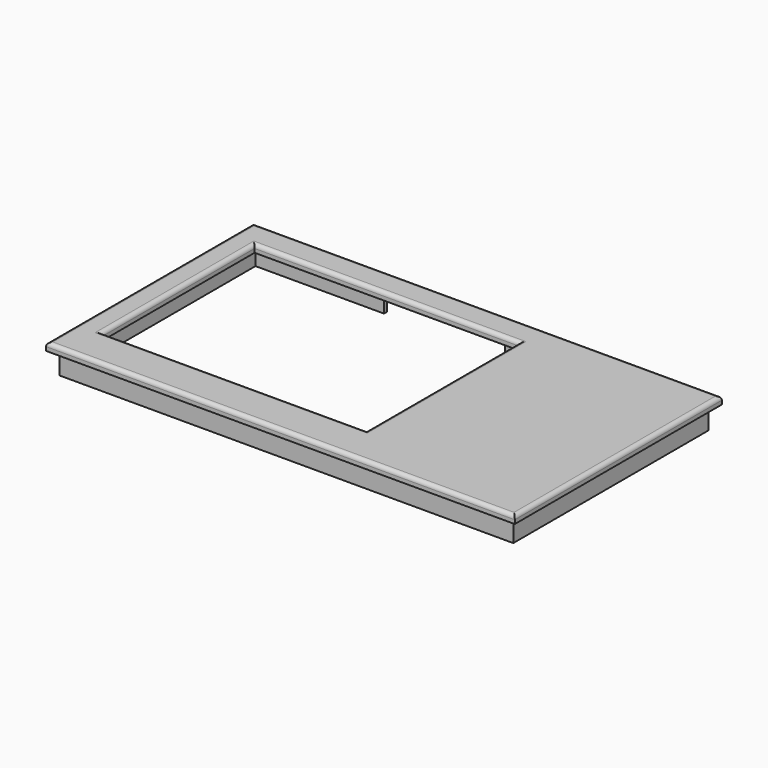
from build123d import *

# Parameters (mm, degrees)
BOX003_W     = 32
BOX003_H     = 10
BOX003_DEPTH = 10
BOX002_W     = 118
BOX002_H     = 62.5
BOX002_DEPTH = 6
BOX_W        = 120
BOX_H        = 64.5
BOX_DEPTH    = 6
BOX004_W     = 70
BOX004_H     = 50.5
BOX004_DEPTH = 10
BOX001_W     = 124
BOX001_H     = 68.5
BOX001_DEPTH = 2
FILLET_R     = 1
FILLET001_R  = 1


with BuildPart() as cube003:
    # Box003 → Box003 (new body)
    with BuildSketch(Plane(origin=(35, 58, -1), x_dir=(1, 0, 0), z_dir=(0, 0, 1))):
        with Locations((16, 5)):
            Rectangle(BOX003_W, BOX003_H)
    extrude(amount=BOX003_DEPTH)


with BuildPart() as cube002:
    # Box002 → Box002 (new body)
    with BuildSketch(Plane(origin=(1, 1, 0), x_dir=(1, 0, 0), z_dir=(0, 0, 1))):
        with Locations((59, 31.25)):
            Rectangle(BOX002_W, BOX002_H)
    extrude(amount=BOX002_DEPTH)


with BuildPart() as cut001:
    # Box → Box (new body)
    with BuildSketch(Plane.XY):
        with Locations((60, 32.25)):
            Rectangle(BOX_W, BOX_H)
    extrude(amount=BOX_DEPTH)

    # Cut: cut Cube002
    add(cube002.part, mode=Mode.SUBTRACT)

    # Cut001: cut Cube003
    add(cube003.part, mode=Mode.SUBTRACT)


with BuildPart() as cut001_1:
    # Cut001 placement: moved
    add(cut001.part.moved(Location((0, 0, 0.1))))


with BuildPart() as cube004:
    # Box004 → Box004 (new body)
    with BuildSketch(Plane(origin=(4.2, 8.7, 0), x_dir=(1, 0, 0), z_dir=(0, 0, 1))):
        with Locations((35, 25.25)):
            Rectangle(BOX004_W, BOX004_H)
    extrude(amount=BOX004_DEPTH)


with BuildPart() as fillet001:
    # Box001 → Box001 (new body)
    with BuildSketch(Plane(origin=(-2, -2, 6), x_dir=(1, 0, 0), z_dir=(0, 0, 1))):
        with Locations((62, 34.25)):
            Rectangle(BOX001_W, BOX001_H)
    extrude(amount=BOX001_DEPTH)

    # Cut002: cut Cube004
    add(cube004.part, mode=Mode.SUBTRACT)

    # Fillet
    fillet_edges = [fillet001.edges().sort_by_distance(p)[0] for p in [
        (39.2, 8.7, 8),
        (74.2, 33.95, 8),
        (39.2, 59.2, 8),
        (4.2, 33.95, 8),
    ]]
    fillet(fillet_edges, radius=FILLET_R)

    # Fillet001
    fillet001_edges = [fillet001.edges().sort_by_distance(p)[0] for p in [
        (-2, 32.25, 8),
        (60, 66.5, 8),
        (60, -2, 8),
        (122, 32.25, 8),
    ]]
    fillet(fillet001_edges, radius=FILLET001_R)


solid = Compound([cut001_1.part, fillet001.part])
